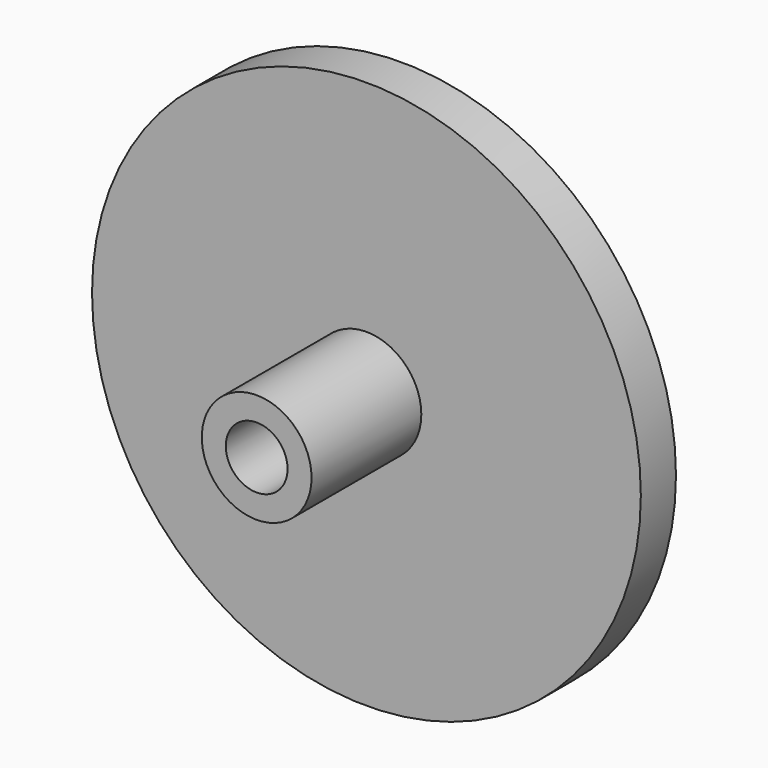
from build123d import *

# Parameters (mm, degrees)
F0_R     = 15.875
F1_DEPTH = 2.54
F2_R     = 3.175
F2_R_2   = 1.785938
F3_DEPTH = 7.9375


with BuildPart() as f1:
    # F0 (on Front) → F1 (new body)
    with BuildSketch(Plane.XZ):
        Circle(F0_R)
    extrude(amount=F1_DEPTH)

    # F2 (on face) → F3 (join)
    with BuildSketch(Plane.XZ.offset(2.54)):
        Circle(F2_R)
        Circle(F2_R_2, mode=Mode.SUBTRACT)
    extrude(amount=F3_DEPTH)


solid = f1.part
